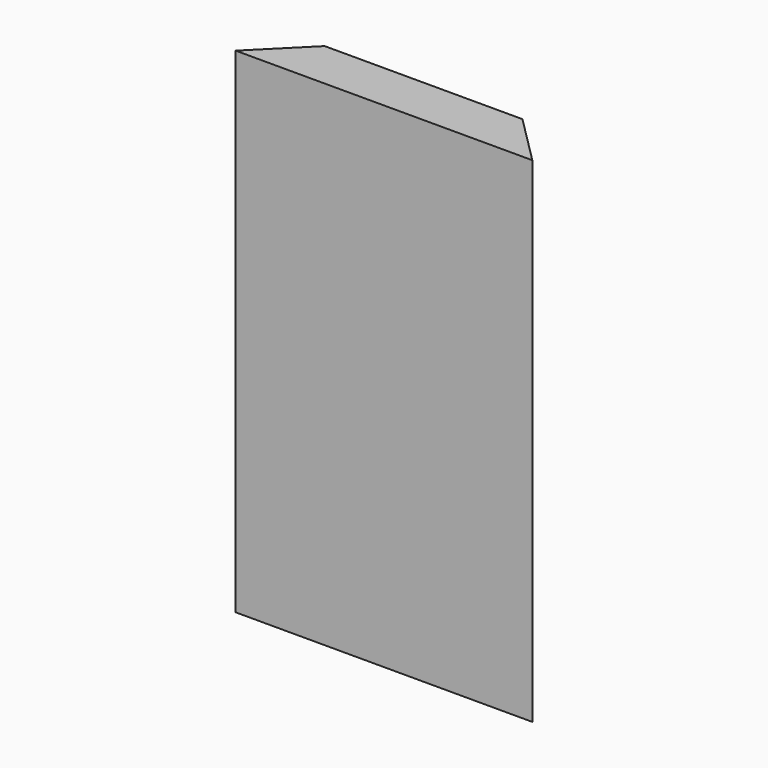
from build123d import *

# Parameters (mm, degrees)
F0_W     = 76.2
F0_H     = 12.7
F1_DEPTH = 127
F2_W     = 6.35
F2_H     = 6.35
F3_DEPTH = 76.2
F5_DEPTH = 127.001


with BuildPart() as f1:
    # F0 (on Top) → F1 (new body)
    with BuildSketch(Plane.XY):
        with Locations((0, -19.05)):
            Rectangle(F0_W, F0_H)
    extrude(amount=F1_DEPTH)

    # F2 (on face) → F3 (cut, through all)
    with BuildSketch(Plane.YZ.offset(38.1)):
        with Locations((-15.875, 9.525)):
            Rectangle(F2_W, F2_H)
    extrude(amount=-F3_DEPTH, mode=Mode.SUBTRACT)

    # F4 (on face) → F5 (cut, through all)
    with BuildSketch(Plane.XY.offset(127)):
        Polygon((-38.1, -12.7), (-38.1, -25.4), (-25.4, -12.7), align=None)
        Polygon((25.4, -12.7), (38.1, -25.4), (38.1, -12.7), align=None)
    extrude(amount=-F5_DEPTH, mode=Mode.SUBTRACT)


solid = f1.part
